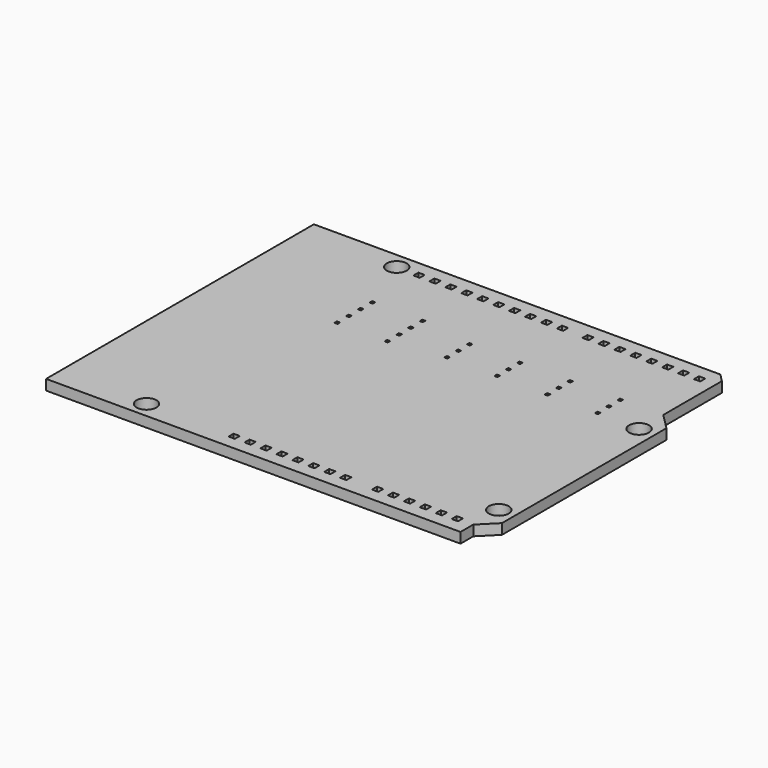
from build123d import *

# Parameters (mm, degrees)
F0_R     = 1.5875
F0_W     = 1
F0_H     = 1
F0_W_2   = 0.5
F0_H_2   = 0.5
F1_DEPTH = 1.65


with BuildPart() as f1:
    # F0 (on Top) → F1 (new body)
    with BuildSketch(Plane.XY):
        Polygon((0, 53.34), (0, 0), (66.04, 0), (66.04, 2.54), (68.58, 5.08), (68.58, 37.846), (66.04, 40.386), (66.04, 52.07), (64.77, 53.34), align=None)
        with Locations((13.97, 2.54)):
            Circle(F0_R, mode=Mode.SUBTRACT)
        with Locations((27.94, 2.54)):
            Rectangle(F0_W, F0_H, mode=Mode.SUBTRACT)
        with Locations((30.48, 2.54)):
            Rectangle(F0_W, F0_H, mode=Mode.SUBTRACT)
        with Locations((33.02, 2.54)):
            Rectangle(F0_W, F0_H, mode=Mode.SUBTRACT)
        with Locations((35.56, 2.54)):
            Rectangle(F0_W, F0_H, mode=Mode.SUBTRACT)
        with Locations((38.1, 2.54)):
            Rectangle(F0_W, F0_H, mode=Mode.SUBTRACT)
        with Locations((40.64, 2.54)):
            Rectangle(F0_W, F0_H, mode=Mode.SUBTRACT)
        with Locations((43.18, 2.54)):
            Rectangle(F0_W, F0_H, mode=Mode.SUBTRACT)
        with Locations((45.72, 2.54)):
            Rectangle(F0_W, F0_H, mode=Mode.SUBTRACT)
        with Locations((50.8, 2.54)):
            Rectangle(F0_W, F0_H, mode=Mode.SUBTRACT)
        with Locations((53.34, 2.54)):
            Rectangle(F0_W, F0_H, mode=Mode.SUBTRACT)
        with Locations((55.88, 2.54)):
            Rectangle(F0_W, F0_H, mode=Mode.SUBTRACT)
        with Locations((58.42, 2.54)):
            Rectangle(F0_W, F0_H, mode=Mode.SUBTRACT)
        with Locations((60.96, 2.54)):
            Rectangle(F0_W, F0_H, mode=Mode.SUBTRACT)
        with Locations((63.5, 2.54)):
            Rectangle(F0_W, F0_H, mode=Mode.SUBTRACT)
        with Locations((66.04, 7.62)):
            Circle(F0_R, mode=Mode.SUBTRACT)
        with Locations((18.83, 34.455)):
            Rectangle(F0_W_2, F0_H_2, mode=Mode.SUBTRACT)
        with Locations((18.83, 36.788333)):
            Rectangle(F0_W_2, F0_H_2, mode=Mode.SUBTRACT)
        with Locations((18.83, 39.121667)):
            Rectangle(F0_W_2, F0_H_2, mode=Mode.SUBTRACT)
        with Locations((26.83, 34.455)):
            Rectangle(F0_W_2, F0_H_2, mode=Mode.SUBTRACT)
        with Locations((26.83, 36.788333)):
            Rectangle(F0_W_2, F0_H_2, mode=Mode.SUBTRACT)
        with Locations((26.83, 39.121667)):
            Rectangle(F0_W_2, F0_H_2, mode=Mode.SUBTRACT)
        with Locations((15.24, 50.8)):
            Circle(F0_R, mode=Mode.SUBTRACT)
        with Locations((18.83, 41.455)):
            Rectangle(F0_W_2, F0_H_2, mode=Mode.SUBTRACT)
        with Locations((26.83, 41.455)):
            Rectangle(F0_W_2, F0_H_2, mode=Mode.SUBTRACT)
        with Locations((18.796, 50.8)):
            Rectangle(F0_W, F0_H, mode=Mode.SUBTRACT)
        with Locations((21.336, 50.8)):
            Rectangle(F0_W, F0_H, mode=Mode.SUBTRACT)
        with Locations((23.876, 50.8)):
            Rectangle(F0_W, F0_H, mode=Mode.SUBTRACT)
        with Locations((26.416, 50.8)):
            Rectangle(F0_W, F0_H, mode=Mode.SUBTRACT)
        with Locations((28.956, 50.8)):
            Rectangle(F0_W, F0_H, mode=Mode.SUBTRACT)
        with Locations((31.496, 50.8)):
            Rectangle(F0_W, F0_H, mode=Mode.SUBTRACT)
        with Locations((34.036, 50.8)):
            Rectangle(F0_W, F0_H, mode=Mode.SUBTRACT)
        with Locations((35.33, 35.705)):
            Rectangle(F0_W_2, F0_H_2, mode=Mode.SUBTRACT)
        with Locations((35.33, 37.955)):
            Rectangle(F0_W_2, F0_H_2, mode=Mode.SUBTRACT)
        with Locations((43.33, 35.705)):
            Rectangle(F0_W_2, F0_H_2, mode=Mode.SUBTRACT)
        with Locations((51.33, 35.705)):
            Rectangle(F0_W_2, F0_H_2, mode=Mode.SUBTRACT)
        with Locations((43.33, 37.955)):
            Rectangle(F0_W_2, F0_H_2, mode=Mode.SUBTRACT)
        with Locations((51.33, 37.955)):
            Rectangle(F0_W_2, F0_H_2, mode=Mode.SUBTRACT)
        with Locations((59.33, 35.705)):
            Rectangle(F0_W_2, F0_H_2, mode=Mode.SUBTRACT)
        with Locations((59.33, 37.955)):
            Rectangle(F0_W_2, F0_H_2, mode=Mode.SUBTRACT)
        with Locations((66.04, 35.56)):
            Circle(F0_R, mode=Mode.SUBTRACT)
        with Locations((35.33, 40.205)):
            Rectangle(F0_W_2, F0_H_2, mode=Mode.SUBTRACT)
        with Locations((43.33, 40.205)):
            Rectangle(F0_W_2, F0_H_2, mode=Mode.SUBTRACT)
        with Locations((51.33, 40.205)):
            Rectangle(F0_W_2, F0_H_2, mode=Mode.SUBTRACT)
        with Locations((36.576, 50.8)):
            Rectangle(F0_W, F0_H, mode=Mode.SUBTRACT)
        with Locations((39.116, 50.8)):
            Rectangle(F0_W, F0_H, mode=Mode.SUBTRACT)
        with Locations((41.656, 50.8)):
            Rectangle(F0_W, F0_H, mode=Mode.SUBTRACT)
        with Locations((45.72, 50.8)):
            Rectangle(F0_W, F0_H, mode=Mode.SUBTRACT)
        with Locations((48.26, 50.8)):
            Rectangle(F0_W, F0_H, mode=Mode.SUBTRACT)
        with Locations((50.8, 50.8)):
            Rectangle(F0_W, F0_H, mode=Mode.SUBTRACT)
        with Locations((59.33, 40.205)):
            Rectangle(F0_W_2, F0_H_2, mode=Mode.SUBTRACT)
        with Locations((53.34, 50.8)):
            Rectangle(F0_W, F0_H, mode=Mode.SUBTRACT)
        with Locations((55.88, 50.8)):
            Rectangle(F0_W, F0_H, mode=Mode.SUBTRACT)
        with Locations((58.42, 50.8)):
            Rectangle(F0_W, F0_H, mode=Mode.SUBTRACT)
        with Locations((60.96, 50.8)):
            Rectangle(F0_W, F0_H, mode=Mode.SUBTRACT)
        with Locations((63.5, 50.8)):
            Rectangle(F0_W, F0_H, mode=Mode.SUBTRACT)
    extrude(amount=F1_DEPTH)


solid = f1.part
